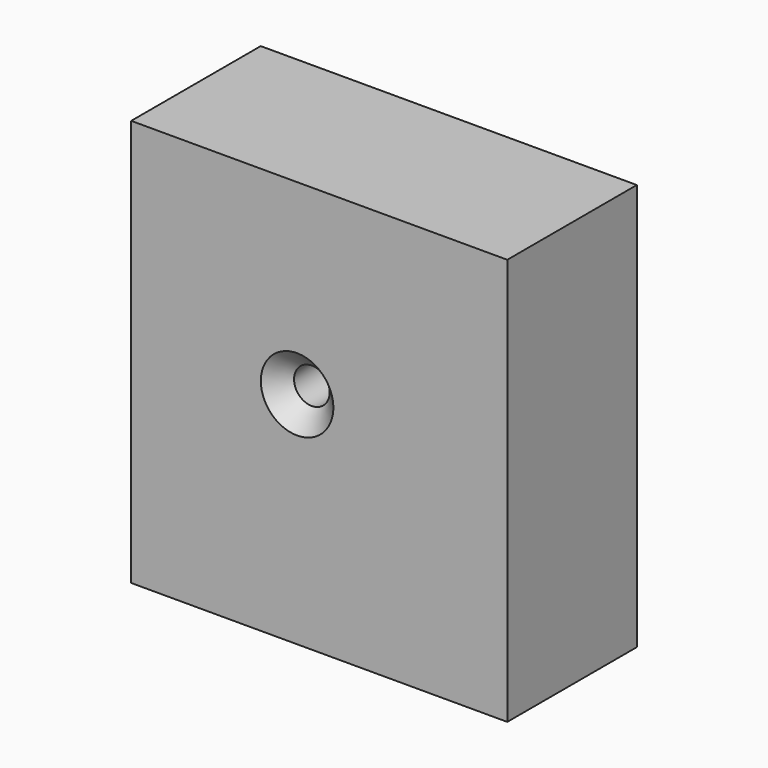
from build123d import *

# Parameters (mm, degrees)
F0_W           = 58.0789744854
F0_H           = 62.8285706043
F1_DEPTH       = 25
F3_D           = 5.5
F3_DEPTH       = 14.4
F3_CSINK_D     = 11.2
F3_CSINK_ANGLE = 90
F3_TIP         = 1.6523667023


with BuildPart() as f1:
    # F0 (on Front) → F1 (new body)
    with BuildSketch(Plane.XZ):
        with Locations((-88.2866978645, 19.4081924856)):
            Rectangle(F0_W, F0_H)
    extrude(amount=F1_DEPTH)

    # F3
    with Locations(Plane.XZ.offset(25)):
        with Locations((-91.7078852654, 21.9739358872)):
            CounterSinkHole(F3_D / 2, F3_CSINK_D / 2, depth=F3_DEPTH, counter_sink_angle=F3_CSINK_ANGLE)
            with Locations((0, 0, -(F3_DEPTH + F3_TIP / 2))):  # 118° drill point
                Cone(0, F3_D / 2, F3_TIP, mode=Mode.SUBTRACT)


solid = f1.part
